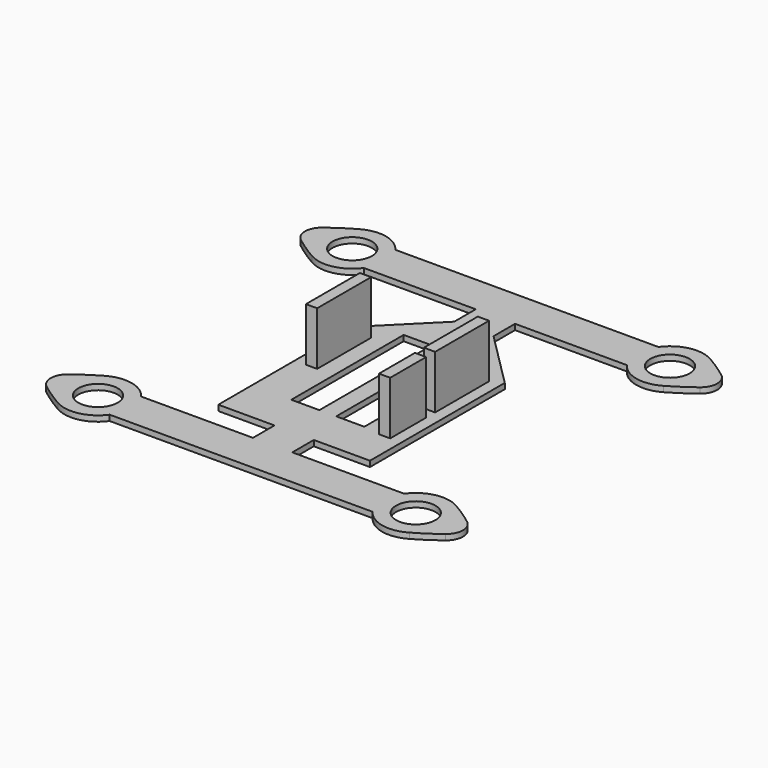
from build123d import *

# Parameters (mm, degrees)
F0_R     = 3.5
F0_W     = 5
F0_H     = 25
F1_DEPTH = 1
F2_W     = 2
F2_H     = 12
F2_H_2   = 8
F3_DEPTH = 9.5


with BuildPart() as f1:
    # F0 (on Top) → F1 (new body)
    with BuildSketch(Plane.XY):
        with BuildLine():
            Line((-13.5, 10), (-13.5, -20))
            Line((-13.5, -20), (-3.5, -20))
            Line((-3.5, -20), (-3.5, -24.784271))
            Line((-3.5, -24.784271), (-23.410874, -24.784271))
            ThreePointArc((-23.410874, -24.784271), (-27.02069, -22.418833), (-31.284271, -23.088119))
            ThreePointArc((-31.284271, -23.088119), (-33.439829, -24.425512), (-35.506278, -25.89685))
            ThreePointArc((-35.506278, -25.89685), (-36.689628, -28.284271), (-35.506278, -30.671693))
            ThreePointArc((-35.506278, -30.671693), (-33.439829, -32.14303), (-31.284271, -33.480424))
            ThreePointArc((-31.284271, -33.480424), (-27.02069, -34.149709), (-23.410874, -31.784271))
            Line((-23.410874, -31.784271), (23.410874, -31.784271))
            ThreePointArc((23.410874, -31.784271), (27.02069, -34.149709), (31.284271, -33.480424))
            ThreePointArc((31.284271, -33.480424), (33.439829, -32.14303), (35.506278, -30.671693))
            ThreePointArc((35.506278, -30.671693), (36.689628, -28.284271), (35.506278, -25.89685))
            ThreePointArc((35.506278, -25.89685), (33.439829, -24.425512), (31.284271, -23.088119))
            ThreePointArc((31.284271, -23.088119), (29.837186, -22.488716), (28.284271, -22.284271))
            ThreePointArc((28.284271, -22.284271), (25.545658, -22.945732), (23.410874, -24.784271))
            Line((23.410874, -24.784271), (3.5, -24.784271))
            Line((3.5, -24.784271), (3.5, -20))
            Line((3.5, -20), (13.5, -20))
            Line((13.5, -20), (13.5, 10))
            Line((13.5, 10), (3.5, 20))
            Line((3.5, 20), (3.5, 24.784271))
            Line((3.5, 24.784271), (23.410874, 24.784271))
            ThreePointArc((23.410874, 24.784271), (27.02069, 22.418833), (31.284271, 23.088119))
            ThreePointArc((31.284271, 23.088119), (33.439829, 24.425512), (35.506278, 25.89685))
            ThreePointArc((35.506278, 25.89685), (36.689628, 28.284271), (35.506278, 30.671693))
            ThreePointArc((35.506278, 30.671693), (33.439829, 32.14303), (31.284271, 33.480424))
            ThreePointArc((31.284271, 33.480424), (27.02069, 34.149709), (23.410874, 31.784271))
            Line((23.410874, 31.784271), (-23.410874, 31.784271))
            ThreePointArc((-23.410874, 31.784271), (-27.02069, 34.149709), (-31.284271, 33.480424))
            ThreePointArc((-31.284271, 33.480424), (-33.439829, 32.14303), (-35.506278, 30.671693))
            ThreePointArc((-35.506278, 30.671693), (-36.689628, 28.284271), (-35.506278, 25.89685))
            ThreePointArc((-35.506278, 25.89685), (-33.439829, 24.425512), (-31.284271, 23.088119))
            ThreePointArc((-31.284271, 23.088119), (-27.02069, 22.418833), (-23.410874, 24.784271))
            Line((-23.410874, 24.784271), (-3.5, 24.784271))
            Line((-3.5, 24.784271), (-3.5, 20))
            Line((-3.5, 20), (-13.5, 10))
        make_face()
        with Locations((-28.284271, -28.284271)):
            Circle(F0_R, mode=Mode.SUBTRACT)
        with Locations((-4, 0)):
            Rectangle(F0_W, F0_H, mode=Mode.SUBTRACT)
        with Locations((28.284271, -28.284271)):
            Circle(F0_R, mode=Mode.SUBTRACT)
        with Locations((4, 0)):
            Rectangle(F0_W, F0_H, mode=Mode.SUBTRACT)
        with Locations((-28.284271, 28.284271)):
            Circle(F0_R, mode=Mode.SUBTRACT)
        with Locations((28.284271, 28.284271)):
            Circle(F0_R, mode=Mode.SUBTRACT)
    extrude(amount=F1_DEPTH)

    # F2 (on face) → F3 (join)
    with BuildSketch(Plane.XY.offset(1)):
        with Locations((-10.5, 3)):
            Rectangle(F2_W, F2_H)
        with Locations((10.5, 3)):
            Rectangle(F2_W, F2_H)
        with Locations((10.5, -9)):
            Rectangle(F2_W, F2_H_2)
    extrude(amount=F3_DEPTH)


solid = f1.part
